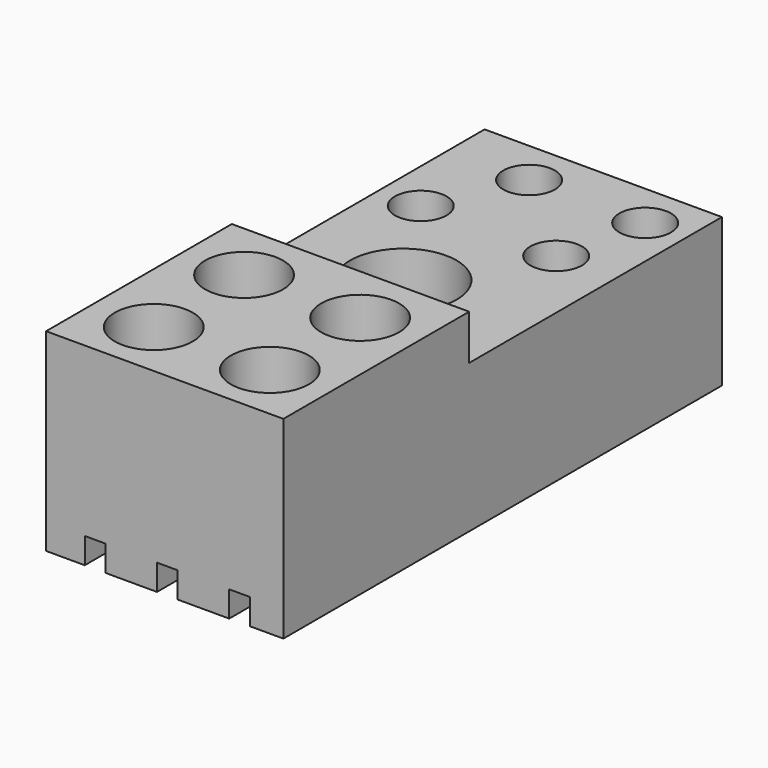
from build123d import *

# Parameters (mm, degrees)
CYLINDER008_R     = 8.25
CYLINDER008_DEPTH = 30
BOX008_W          = 3.2
BOX008_H          = 90
BOX008_DEPTH      = 4
BOX006_W          = 3.2
BOX006_H          = 90
BOX006_DEPTH      = 4
BOX004_W          = 3.2
BOX004_H          = 90
BOX004_DEPTH      = 4
CYLINDER007_R     = 4
CYLINDER007_DEPTH = 25
CYLINDER006_R     = 4
CYLINDER006_DEPTH = 25
CYLINDER005_R     = 4
CYLINDER005_DEPTH = 25
CYLINDER004_R     = 4
CYLINDER004_DEPTH = 25
CYLINDER003_R     = 6.05
CYLINDER003_DEPTH = 25
CYLINDER002_R     = 6.05
CYLINDER002_DEPTH = 25
CYLINDER001_R     = 6.05
CYLINDER001_DEPTH = 25
CYLINDER_R        = 6.05
CYLINDER_DEPTH    = 25
BOX001_W          = 40
BOX001_H          = 55
BOX001_DEPTH      = 7
BOX_W             = 36.8
BOX_H             = 85
BOX_DEPTH         = 30


with BuildPart() as cylinder008:
    # Cylinder008 → Cylinder008 (new body)
    with BuildSketch(Plane(origin=(17, 45, 5), x_dir=(1, 0, 0), z_dir=(0, 0, 1))):
        Circle(CYLINDER008_R)
    extrude(amount=CYLINDER008_DEPTH)


with BuildPart() as cube008:
    # Box008 → Box008 (new body)
    with BuildSketch(Plane(origin=(28.4, -3, 0), x_dir=(1, 0, 0), z_dir=(0, 0, 1))):
        with Locations((1.6, 45)):
            Rectangle(BOX008_W, BOX008_H)
    extrude(amount=BOX008_DEPTH)


with BuildPart() as cube006:
    # Box006 → Box006 (new body)
    with BuildSketch(Plane(origin=(17.2, -3, 0), x_dir=(1, 0, 0), z_dir=(0, 0, 1))):
        with Locations((1.6, 45)):
            Rectangle(BOX006_W, BOX006_H)
    extrude(amount=BOX006_DEPTH)


with BuildPart() as cube004:
    # Box004 → Box004 (new body)
    with BuildSketch(Plane(origin=(6, -3, 0), x_dir=(1, 0, 0), z_dir=(0, 0, 1))):
        with Locations((1.6, 45)):
            Rectangle(BOX004_W, BOX004_H)
    extrude(amount=BOX004_DEPTH)


with BuildPart() as cylinder007:
    # Cylinder007 → Cylinder007 (new body)
    with BuildSketch(Plane(origin=(6.5, 61.5, 5), x_dir=(1, 0, 0), z_dir=(0, 0, 1))):
        Circle(CYLINDER007_R)
    extrude(amount=CYLINDER007_DEPTH)


with BuildPart() as cylinder006:
    # Cylinder006 → Cylinder006 (new body)
    with BuildSketch(Plane(origin=(30.5, 75, 5), x_dir=(1, 0, 0), z_dir=(0, 0, 1))):
        Circle(CYLINDER006_R)
    extrude(amount=CYLINDER006_DEPTH)


with BuildPart() as cylinder005:
    # Cylinder005 → Cylinder005 (new body)
    with BuildSketch(Plane(origin=(27.5, 61.5, 5), x_dir=(1, 0, 0), z_dir=(0, 0, 1))):
        Circle(CYLINDER005_R)
    extrude(amount=CYLINDER005_DEPTH)


with BuildPart() as cylinder004:
    # Cylinder004 → Cylinder004 (new body)
    with BuildSketch(Plane(origin=(12.5, 75, 5), x_dir=(1, 0, 0), z_dir=(0, 0, 1))):
        Circle(CYLINDER004_R)
    extrude(amount=CYLINDER004_DEPTH)


with BuildPart() as cylinder003:
    # Cylinder003 → Cylinder003 (new body)
    with BuildSketch(Plane(origin=(27.5, 23.5, 5), x_dir=(1, 0, 0), z_dir=(0, 0, 1))):
        Circle(CYLINDER003_R)
    extrude(amount=CYLINDER003_DEPTH)


with BuildPart() as cylinder002:
    # Cylinder002 → Cylinder002 (new body)
    with BuildSketch(Plane(origin=(9.5, 23.5, 5), x_dir=(1, 0, 0), z_dir=(0, 0, 1))):
        Circle(CYLINDER002_R)
    extrude(amount=CYLINDER002_DEPTH)


with BuildPart() as cylinder001:
    # Cylinder001 → Cylinder001 (new body)
    with BuildSketch(Plane(origin=(27.5, 6, 5), x_dir=(1, 0, 0), z_dir=(0, 0, 1))):
        Circle(CYLINDER001_R)
    extrude(amount=CYLINDER001_DEPTH)


with BuildPart() as cylinder:
    # Cylinder → Cylinder (new body)
    with BuildSketch(Plane(origin=(9.5, 6, 5), x_dir=(1, 0, 0), z_dir=(0, 0, 1))):
        Circle(CYLINDER_R)
    extrude(amount=CYLINDER_DEPTH)


with BuildPart() as cube001:
    # Box001 → Box001 (new body)
    with BuildSketch(Plane(origin=(0, 33, 23), x_dir=(1, 0, 0), z_dir=(0, 0, 1))):
        with Locations((20, 27.5)):
            Rectangle(BOX001_W, BOX001_H)
    extrude(amount=BOX001_DEPTH)


with BuildPart() as cut012:
    # Box → Box (new body)
    with BuildSketch(Plane(origin=(0, -3, 0), x_dir=(1, 0, 0), z_dir=(0, 0, 1))):
        with Locations((18.4, 42.5)):
            Rectangle(BOX_W, BOX_H)
    extrude(amount=BOX_DEPTH)

    # Cut: cut Cube001
    add(cube001.part, mode=Mode.SUBTRACT)

    # Cut001: cut Cylinder
    add(cylinder.part, mode=Mode.SUBTRACT)

    # Cut002: cut Cylinder001
    add(cylinder001.part, mode=Mode.SUBTRACT)

    # Cut003: cut Cylinder002
    add(cylinder002.part, mode=Mode.SUBTRACT)

    # Cut004: cut Cylinder003
    add(cylinder003.part, mode=Mode.SUBTRACT)

    # Cut005: cut Cylinder004
    add(cylinder004.part, mode=Mode.SUBTRACT)

    # Cut006: cut Cylinder005
    add(cylinder005.part, mode=Mode.SUBTRACT)

    # Cut007: cut Cylinder006
    add(cylinder006.part, mode=Mode.SUBTRACT)

    # Cut008: cut Cylinder007
    add(cylinder007.part, mode=Mode.SUBTRACT)

    # Cut009: cut Cube004
    add(cube004.part, mode=Mode.SUBTRACT)

    # Cut010: cut Cube006
    add(cube006.part, mode=Mode.SUBTRACT)

    # Cut011: cut Cube008
    add(cube008.part, mode=Mode.SUBTRACT)

    # Cut012: cut Cylinder008
    add(cylinder008.part, mode=Mode.SUBTRACT)


solid = cut012.part
